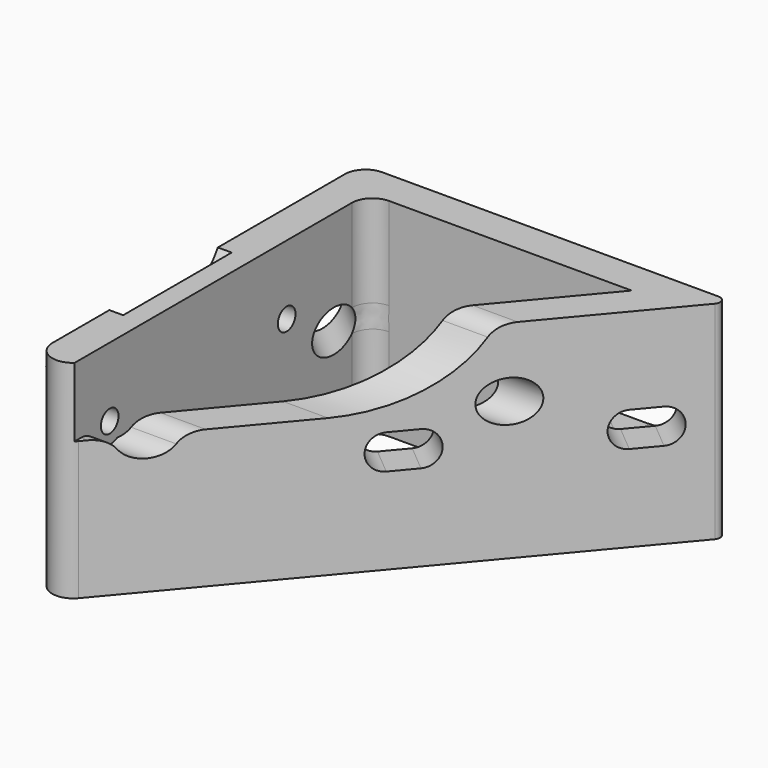
from build123d import *

# Parameters (mm, degrees)
PAD_DEPTH       = 30
POCKET_DEPTH    = 30
POCKET001_DEPTH = 5
SKETCH012_R     = 3
POCKET002_DEPTH = 36.2220150744
SKETCH004_R     = 11.5
POCKET003_DEPTH = 2
SKETCH005_R     = 1.6
POCKET004_DEPTH = 5
SKETCH017_R     = 3
POCKET005_DEPTH = 48.8112135518
POCKET006_DEPTH = 48.8112135518
SKETCH019_W     = 5
SKETCH019_H     = 15
PAD001_DEPTH    = 15
POCKET007_DEPTH = 38.2766814448
FILLET_R        = 3
FILLET001_R     = 3
FILLET002_R     = 3
FILLET003_R     = 3
FILLET004_R     = 4
FILLET005_R     = 1


with BuildPart() as part:
    # Sketch → Pad (new body)
    with BuildSketch(Plane.XY):
        Polygon((-67, -15.6), (-67, -26.9528805906), (-13.1897864482, 37.175634728), (-67, 37.175634728), align=None)
    extrude(amount=PAD_DEPTH)

    # Sketch001 → Pocket (cut)
    with BuildSketch(Plane.XY.offset(30)):
        Polygon((-62, 32.175634728), (-62, -13.2154934933), (-23.9123210508, 32.175634728), align=None)
    extrude(amount=-POCKET_DEPTH, mode=Mode.SUBTRACT)

    # Sketch002 → Pocket001 (cut)
    with BuildSketch(Plane(origin=(-26.045511066, 21.8547787293, 0), x_dir=(0.6427876097, 0.7660444431, 0), z_dir=(0.7660444431, -0.6427876097, 0))):
        with BuildLine():
            ThreePointArc((7.9999570995, 17.5), (5.4999570995, 15), (7.9999570995, 12.5))
            Line((7.9999570995, 12.5), (11.9999570995, 12.5))
            ThreePointArc((11.9999570995, 12.5), (14.4999570995, 15), (11.9999570995, 17.5))
            Line((7.9999570995, 17.5), (11.9999570995, 17.5))
        make_face()
        with BuildLine():
            ThreePointArc((-20.0000429005, 17.5), (-22.5000429005, 15), (-20.0000429005, 12.5))
            Line((-20.0000429005, 12.5), (-16.0000429005, 12.5))
            ThreePointArc((-16.0000429005, 12.5), (-13.5000429005, 15), (-16.0000429005, 17.5))
            Line((-20.0000429005, 17.5), (-16.0000429005, 17.5))
        make_face()
    extrude(amount=-POCKET001_DEPTH, mode=Mode.SUBTRACT)

    # Sketch012 → Pocket002 (cut, through all)
    with BuildSketch(Plane(origin=(-29.8757332816, 25.0687167778, 0), x_dir=(-0.6427876097, -0.7660444431, 0), z_dir=(-0.7660444431, 0.6427876097, 0))):
        with Locations((20.0000429005, 15)):
            Circle(SKETCH012_R)
        with BuildLine():
            ThreePointArc((-11.9999570995, 19.5), (-16.4999570995, 15), (-11.9999570995, 10.5))
            Line((-11.9999570995, 10.5), (-7.9999570995, 10.5))
            ThreePointArc((-7.9999570995, 10.5), (-3.4999570995, 15), (-7.9999570995, 19.5))
            Line((-11.9999570995, 19.5), (-7.9999570995, 19.5))
        make_face()
    extrude(amount=POCKET002_DEPTH, mode=Mode.SUBTRACT)

    # Sketch004 → Pocket003 (cut)
    with BuildSketch(Plane(origin=(-67, 0, 0), x_dir=(0, -1, 0), z_dir=(-1, 0, 0))):
        with Locations((-1.4, 36)):
            Circle(SKETCH004_R)
    extrude(amount=-POCKET003_DEPTH, mode=Mode.SUBTRACT)

    # Sketch005 → Pocket004 (cut)
    with BuildSketch(Plane(origin=(-67, 0, 0), x_dir=(0, -1, 0), z_dir=(-1, 0, 0))):
        with Locations((-17.4, 20)):
            Circle(SKETCH005_R)
        with Locations((14.6, 20)):
            Circle(SKETCH005_R)
    extrude(amount=-POCKET004_DEPTH, mode=Mode.SUBTRACT)

    # Sketch017 → Pocket005 (cut, through all)
    with BuildSketch(Plane.YZ.offset(-62)):
        with Locations((-14.6, 20)):
            Circle(SKETCH017_R)
        with Locations((17.4, 20)):
            Circle(SKETCH017_R)
    extrude(amount=POCKET005_DEPTH, mode=Mode.SUBTRACT)

    # Sketch018 → Pocket006 (cut, through all)
    with BuildSketch(Plane.YZ.offset(-62)):
        with BuildLine():
            ThreePointArc((1.4000345084, 20), (16.63877916, 40.8764341185), (-7.88883473, 49.02756882))
            Line((-48.5999654916, 20), (-7.88883473, 49.02756882))
            Line((1.4000345084, 20), (-48.5999654916, 20))
        make_face()
    extrude(amount=POCKET006_DEPTH, mode=Mode.SUBTRACT)

    # Sketch019 → Pad001 (new body)
    with BuildSketch(Plane(origin=(-67, 0, 0), x_dir=(0, -1, 0), z_dir=(-1, 0, 0))):
        with Locations((-1.3999532833, 7.5)):
            Rectangle(SKETCH019_W, SKETCH019_H)
    extrude(amount=PAD001_DEPTH)

    # Sketch020 → Pocket007 (cut, through all)
    with BuildSketch(Plane.XZ.offset(1.1000467167)):
        Polygon((-82, 15), (-82, 0), (-67, 0), align=None)
    extrude(amount=-POCKET007_DEPTH, mode=Mode.SUBTRACT)

    # Fillet
    fillet_edges = [part.edges().sort_by_distance(p)[0] for p in [
        (-67, -26.952881, 15),
    ]]
    fillet(fillet_edges, radius=FILLET_R)

    # Fillet001
    fillet001_edges = [part.edges().sort_by_distance(p)[0] for p in [
        (-67, 37.175635, 15),
    ]]
    fillet(fillet001_edges, radius=FILLET001_R)

    # Fillet002
    fillet002_edges = [part.edges().sort_by_distance(p)[0] for p in [
        (-62, 32.175635, 15),
    ]]
    fillet(fillet002_edges, radius=FILLET002_R)

    # Fillet003
    fillet003_edges = [part.edges().sort_by_distance(p)[0] for p in [
        (-60.576001, -17.6, 20),
        (-57.380922, -11.6, 20),
        (-34.026768, 16.232397, 30),
    ]]
    fillet(fillet003_edges, radius=FILLET003_R)

    # Fillet004
    fillet004_edges = [part.edges().sort_by_distance(p)[0] for p in [
        (-67, -1.100047, 7.5),
        (-67, 3.899953, 7.5),
    ]]
    fillet(fillet004_edges, radius=FILLET004_R)

    # Fillet005
    fillet005_edges = [part.edges().sort_by_distance(p)[0] for p in [
        (-13.189786, 37.175635, 15),
    ]]
    fillet(fillet005_edges, radius=FILLET005_R)


solid = part.part
